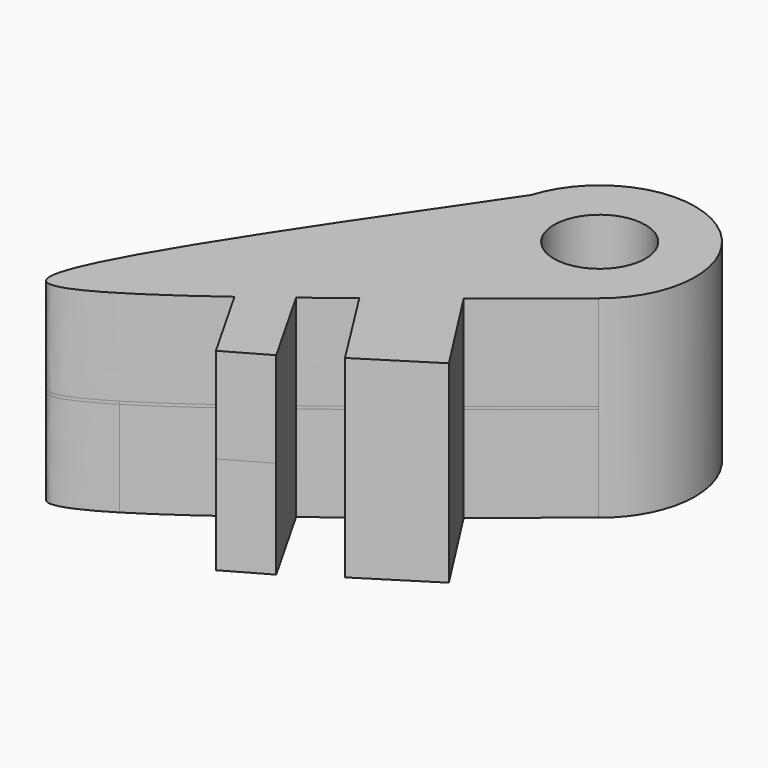
from build123d import *

# Parameters (mm, degrees)
F0_R      = 4.0305419328
F1_DEPTH  = 3.302
F0_W      = 6.9032675428
F0_H      = 3.0255816225
F2_DEPTH  = 8.382
F3_DEPTH  = 8.636
F3_FACE_R = 4.0305419328
F4_DEPTH  = 8.382


with BuildPart() as f1:
    # F0 (on Top) → F1 (new body)
    with BuildSketch(Plane.XY):
        with BuildLine():
            ThreePointArc((43.9072279078, 30.8323236787), (46.2739427937, 33.7705117874), (47.119469779, 37.4473817647))
            ThreePointArc((47.119469779, 37.4473817647), (39.9604583774, 45.7701922395), (30.6609147446, 39.9358879389))
            ThreePointArc((30.6609147446, 39.9358879389), (33.9345249364, 30.5102850539), (43.9072279078, 30.8323236787))
        make_face()
        with Locations((38.7020632625, 37.4473817647)):
            Circle(F0_R, mode=Mode.SUBTRACT)
    extrude(amount=F1_DEPTH)

    # F0 (on Top) → F2 (join)
    with BuildSketch(Plane.XY):
        with BuildLine():
            ThreePointArc((43.9072279078, 30.8323236787), (33.9345249364, 30.5102850539), (30.6609147446, 39.9358879389))
            add(Edge.make_bspline(
                [(30.6609147446, 39.9358879389), (20.6893909727, 25.39170121), (7.5725286082, 6.2288638322), (15.0488049768, 9.2359109291), (17.6743862153, 10.8483482297)],
                knots=[0, 0, 0, 0, 0.4920294796, 0.647919761, 0.647919761, 0.647919761, 0.647919761], degree=3))
            add(Edge.make_bspline(
                [(17.6743862153, 10.8483482297), (19.4947029558, 11.9662517888), (21.7124243986, 13.5114372855), (24.2058042392, 15.3524549365)],
                knots=[0.647919761, 0.647919761, 0.647919761, 0.647919761, 0.7559985684, 0.7559985684, 0.7559985684, 0.7559985684], degree=3))
            add(Edge.make_bspline(
                [(24.2058042392, 15.3524549365), (25.2862932119, 16.1502472496), (26.4185470415, 17.0035927737), (27.5926585156, 17.9017946674)],
                knots=[0.7559985684, 0.7559985684, 0.7559985684, 0.7559985684, 0.8028337748, 0.8028337748, 0.8028337748, 0.8028337748], degree=3))
            add(Edge.make_bspline(
                [(27.5926585156, 17.9017946674), (28.7051086684, 18.7528253029), (29.8551354005, 19.6441245426), (31.0343118638, 20.5665938982)],
                knots=[0.8028337748, 0.8028337748, 0.8028337748, 0.8028337748, 0.8472093164, 0.8472093164, 0.8472093164, 0.8472093164], degree=3))
            add(Edge.make_bspline(
                [(31.0343118638, 20.5665938982), (32.852075568, 21.9886298403), (34.7391103278, 23.4847380549), (36.6645458304, 25.0215877893)],
                knots=[0.8472093164, 0.8472093164, 0.8472093164, 0.8472093164, 0.9156165916, 0.9156165916, 0.9156165916, 0.9156165916], degree=3))
            add(Edge.make_bspline(
                [(36.6645458304, 25.0215877893), (39.0396559305, 26.9173601078), (41.4731978173, 28.8751260137), (43.9072279078, 30.8323236787)],
                knots=[0.9156165916, 0.9156165916, 0.9156165916, 0.9156165916, 1, 1, 1, 1], degree=3))
        make_face()
        with Locations((24.1410247442, 19.4145854787)):
            Rectangle(F0_W, F0_H, mode=Mode.SUBTRACT)
        with BuildLine():
            ThreePointArc((43.9072279078, 30.8323236787), (46.2739427937, 33.7705117874), (47.119469779, 37.4473817647))
            ThreePointArc((47.119469779, 37.4473817647), (39.9604583774, 45.7701922395), (30.6609147446, 39.9358879389))
            ThreePointArc((30.6609147446, 39.9358879389), (33.9345249364, 30.5102850539), (43.9072279078, 30.8323236787))
        make_face()
        with Locations((38.7020632625, 37.4473817647)):
            Circle(F0_R, mode=Mode.SUBTRACT)
        with BuildLine():
            Line((41.9089498552, 16.8331647905), (36.6645458304, 25.0215877893))
            add(Edge.make_bspline(
                [(31.0343118638, 20.5665938982), (32.852075568, 21.9886298403), (34.7391103278, 23.4847380549), (36.6645458304, 25.0215877893)],
                knots=[0.8472093164, 0.8472093164, 0.8472093164, 0.8472093164, 0.9156165916, 0.9156165916, 0.9156165916, 0.9156165916], degree=3))
            Line((31.0343118638, 20.5665938982), (35.8326518562, 12.986669483))
            Line((35.8326518562, 12.986669483), (41.9089498552, 16.8331647905))
        make_face()
        with BuildLine():
            add(Edge.make_bspline(
                [(24.2058042392, 15.3524549365), (25.2862932119, 16.1502472496), (26.4185470415, 17.0035927737), (27.5926585156, 17.9017946674)],
                knots=[0.7559985684, 0.7559985684, 0.7559985684, 0.7559985684, 0.8028337748, 0.8028337748, 0.8028337748, 0.8028337748], degree=3))
            Line((24.2058042392, 15.3524549365), (28.2309433092, 8.273783253))
            Line((28.2309433092, 8.273783253), (31.8857005226, 10.3519847446))
            Line((31.8857005226, 10.3519847446), (27.5926585156, 17.9017946674))
        make_face()
        with Locations((24.1410247442, 19.4145854787)):
            Rectangle(F0_W, F0_H)
    extrude(amount=F2_DEPTH)

    # F0 (on Top) → F3 (join)
    with BuildSketch(Plane.XY):
        with BuildLine():
            ThreePointArc((43.9072279078, 30.8323236787), (33.9345249364, 30.5102850539), (30.6609147446, 39.9358879389))
            add(Edge.make_bspline(
                [(30.6609147446, 39.9358879389), (20.6893909727, 25.39170121), (7.5725286082, 6.2288638322), (15.0488049768, 9.2359109291), (17.6743862153, 10.8483482297)],
                knots=[0, 0, 0, 0, 0.4920294796, 0.647919761, 0.647919761, 0.647919761, 0.647919761], degree=3))
            add(Edge.make_bspline(
                [(17.6743862153, 10.8483482297), (19.4947029558, 11.9662517888), (21.7124243986, 13.5114372855), (24.2058042392, 15.3524549365)],
                knots=[0.647919761, 0.647919761, 0.647919761, 0.647919761, 0.7559985684, 0.7559985684, 0.7559985684, 0.7559985684], degree=3))
            add(Edge.make_bspline(
                [(24.2058042392, 15.3524549365), (25.2862932119, 16.1502472496), (26.4185470415, 17.0035927737), (27.5926585156, 17.9017946674)],
                knots=[0.7559985684, 0.7559985684, 0.7559985684, 0.7559985684, 0.8028337748, 0.8028337748, 0.8028337748, 0.8028337748], degree=3))
            add(Edge.make_bspline(
                [(27.5926585156, 17.9017946674), (28.7051086684, 18.7528253029), (29.8551354005, 19.6441245426), (31.0343118638, 20.5665938982)],
                knots=[0.8028337748, 0.8028337748, 0.8028337748, 0.8028337748, 0.8472093164, 0.8472093164, 0.8472093164, 0.8472093164], degree=3))
            add(Edge.make_bspline(
                [(31.0343118638, 20.5665938982), (32.852075568, 21.9886298403), (34.7391103278, 23.4847380549), (36.6645458304, 25.0215877893)],
                knots=[0.8472093164, 0.8472093164, 0.8472093164, 0.8472093164, 0.9156165916, 0.9156165916, 0.9156165916, 0.9156165916], degree=3))
            add(Edge.make_bspline(
                [(36.6645458304, 25.0215877893), (39.0396559305, 26.9173601078), (41.4731978173, 28.8751260137), (43.9072279078, 30.8323236787)],
                knots=[0.9156165916, 0.9156165916, 0.9156165916, 0.9156165916, 1, 1, 1, 1], degree=3))
        make_face()
        with Locations((24.1410247442, 19.4145854787)):
            Rectangle(F0_W, F0_H, mode=Mode.SUBTRACT)
        with BuildLine():
            ThreePointArc((43.9072279078, 30.8323236787), (46.2739427937, 33.7705117874), (47.119469779, 37.4473817647))
            ThreePointArc((47.119469779, 37.4473817647), (39.9604583774, 45.7701922395), (30.6609147446, 39.9358879389))
            ThreePointArc((30.6609147446, 39.9358879389), (33.9345249364, 30.5102850539), (43.9072279078, 30.8323236787))
        make_face()
        with Locations((38.7020632625, 37.4473817647)):
            Circle(F0_R, mode=Mode.SUBTRACT)
        with BuildLine():
            Line((41.9089498552, 16.8331647905), (36.6645458304, 25.0215877893))
            add(Edge.make_bspline(
                [(31.0343118638, 20.5665938982), (32.852075568, 21.9886298403), (34.7391103278, 23.4847380549), (36.6645458304, 25.0215877893)],
                knots=[0.8472093164, 0.8472093164, 0.8472093164, 0.8472093164, 0.9156165916, 0.9156165916, 0.9156165916, 0.9156165916], degree=3))
            Line((31.0343118638, 20.5665938982), (35.8326518562, 12.986669483))
            Line((35.8326518562, 12.986669483), (41.9089498552, 16.8331647905))
        make_face()
        with BuildLine():
            add(Edge.make_bspline(
                [(24.2058042392, 15.3524549365), (25.2862932119, 16.1502472496), (26.4185470415, 17.0035927737), (27.5926585156, 17.9017946674)],
                knots=[0.7559985684, 0.7559985684, 0.7559985684, 0.7559985684, 0.8028337748, 0.8028337748, 0.8028337748, 0.8028337748], degree=3))
            Line((24.2058042392, 15.3524549365), (28.2309433092, 8.273783253))
            Line((28.2309433092, 8.273783253), (31.8857005226, 10.3519847446))
            Line((31.8857005226, 10.3519847446), (27.5926585156, 17.9017946674))
        make_face()
        with Locations((24.1410247442, 19.4145854787)):
            Rectangle(F0_W, F0_H)
    extrude(amount=F3_DEPTH)

    # F0 (on Top) + F3_face (on face) → F4 (join)
    with BuildSketch(Plane.XY):
        with BuildLine():
            ThreePointArc((43.9072279078, 30.8323236787), (33.9345249364, 30.5102850539), (30.6609147446, 39.9358879389))
            add(Edge.make_bspline(
                [(30.6609147446, 39.9358879389), (20.6893909727, 25.39170121), (7.5725286082, 6.2288638322), (15.0488049768, 9.2359109291), (17.6743862153, 10.8483482297)],
                knots=[0, 0, 0, 0, 0.4920294796, 0.647919761, 0.647919761, 0.647919761, 0.647919761], degree=3))
            add(Edge.make_bspline(
                [(17.6743862153, 10.8483482297), (19.4947029558, 11.9662517888), (21.7124243986, 13.5114372855), (24.2058042392, 15.3524549365)],
                knots=[0.647919761, 0.647919761, 0.647919761, 0.647919761, 0.7559985684, 0.7559985684, 0.7559985684, 0.7559985684], degree=3))
            add(Edge.make_bspline(
                [(24.2058042392, 15.3524549365), (25.2862932119, 16.1502472496), (26.4185470415, 17.0035927737), (27.5926585156, 17.9017946674)],
                knots=[0.7559985684, 0.7559985684, 0.7559985684, 0.7559985684, 0.8028337748, 0.8028337748, 0.8028337748, 0.8028337748], degree=3))
            add(Edge.make_bspline(
                [(27.5926585156, 17.9017946674), (28.7051086684, 18.7528253029), (29.8551354005, 19.6441245426), (31.0343118638, 20.5665938982)],
                knots=[0.8028337748, 0.8028337748, 0.8028337748, 0.8028337748, 0.8472093164, 0.8472093164, 0.8472093164, 0.8472093164], degree=3))
            add(Edge.make_bspline(
                [(31.0343118638, 20.5665938982), (32.852075568, 21.9886298403), (34.7391103278, 23.4847380549), (36.6645458304, 25.0215877893)],
                knots=[0.8472093164, 0.8472093164, 0.8472093164, 0.8472093164, 0.9156165916, 0.9156165916, 0.9156165916, 0.9156165916], degree=3))
            add(Edge.make_bspline(
                [(36.6645458304, 25.0215877893), (39.0396559305, 26.9173601078), (41.4731978173, 28.8751260137), (43.9072279078, 30.8323236787)],
                knots=[0.9156165916, 0.9156165916, 0.9156165916, 0.9156165916, 1, 1, 1, 1], degree=3))
        make_face()
        with Locations((24.1410247442, 19.4145854787)):
            Rectangle(F0_W, F0_H, mode=Mode.SUBTRACT)
        with BuildLine():
            ThreePointArc((43.9072279078, 30.8323236787), (46.2739427937, 33.7705117874), (47.119469779, 37.4473817647))
            ThreePointArc((47.119469779, 37.4473817647), (39.9604583774, 45.7701922395), (30.6609147446, 39.9358879389))
            ThreePointArc((30.6609147446, 39.9358879389), (33.9345249364, 30.5102850539), (43.9072279078, 30.8323236787))
        make_face()
        with Locations((38.7020632625, 37.4473817647)):
            Circle(F0_R, mode=Mode.SUBTRACT)
        with BuildLine():
            Line((41.9089498552, 16.8331647905), (36.6645458304, 25.0215877893))
            add(Edge.make_bspline(
                [(31.0343118638, 20.5665938982), (32.852075568, 21.9886298403), (34.7391103278, 23.4847380549), (36.6645458304, 25.0215877893)],
                knots=[0.8472093164, 0.8472093164, 0.8472093164, 0.8472093164, 0.9156165916, 0.9156165916, 0.9156165916, 0.9156165916], degree=3))
            Line((31.0343118638, 20.5665938982), (35.8326518562, 12.986669483))
            Line((35.8326518562, 12.986669483), (41.9089498552, 16.8331647905))
        make_face()
        with BuildLine():
            add(Edge.make_bspline(
                [(24.2058042392, 15.3524549365), (25.2862932119, 16.1502472496), (26.4185470415, 17.0035927737), (27.5926585156, 17.9017946674)],
                knots=[0.7559985684, 0.7559985684, 0.7559985684, 0.7559985684, 0.8028337748, 0.8028337748, 0.8028337748, 0.8028337748], degree=3))
            Line((24.2058042392, 15.3524549365), (28.2309433092, 8.273783253))
            Line((28.2309433092, 8.273783253), (31.8857005226, 10.3519847446))
            Line((31.8857005226, 10.3519847446), (27.5926585156, 17.9017946674))
        make_face()
        with Locations((24.1410247442, 19.4145854787)):
            Rectangle(F0_W, F0_H)
    with BuildSketch(Plane(origin=(31.1212080888, 26.3654113586, 8.636), x_dir=(1, 0, 0), z_dir=(0, 0, 1))):
        with BuildLine():
            add(Edge.make_bspline(
                [(-0.4602933442, 13.5704765802), (-10.4318171161, -0.9737101486), (-25.736689364, -23.333080082), (-13.0051750128, -15.5094138089), (-6.9154038496, -11.0129564222)],
                knots=[0, 0, 0, 0, 0.4920294796, 0.7559985684, 0.7559985684, 0.7559985684, 0.7559985684], degree=3))
            Line((-6.9154038496, -11.0129564222), (-2.8902647797, -18.0916281056))
            Line((-2.8902647797, -18.0916281056), (0.7644924338, -16.013426614))
            Line((0.7644924338, -16.013426614), (-3.5285495732, -8.4636166912))
            add(Edge.make_bspline(
                [(-3.5285495732, -8.4636166912), (-2.4160994204, -7.6125860558), (-1.2660726883, -6.7212868161), (-0.086896225, -5.7988174604)],
                knots=[0.8028337748, 0.8028337748, 0.8028337748, 0.8028337748, 0.8472093164, 0.8472093164, 0.8472093164, 0.8472093164], degree=3))
            Line((-0.086896225, -5.7988174604), (4.7114437674, -13.3787418756))
            Line((4.7114437674, -13.3787418756), (10.7877417664, -9.5322465681))
            Line((10.7877417664, -9.5322465681), (5.5433377416, -1.3438235693))
            add(Edge.make_bspline(
                [(5.5433377416, -1.3438235693), (7.9184478417, 0.5519487491), (10.3519897285, 2.509714655), (12.786019819, 4.4669123201)],
                knots=[0.9156165916, 0.9156165916, 0.9156165916, 0.9156165916, 1, 1, 1, 1], degree=3))
            ThreePointArc((12.786019819, 4.4669123201), (12.3483934997, 18.0190671168), (-0.4602933442, 13.5704765802))
        make_face()
        with Locations((7.5808551736, 11.081970406)):
            Circle(F3_FACE_R, mode=Mode.SUBTRACT)
    extrude(amount=F4_DEPTH)


solid = f1.part
